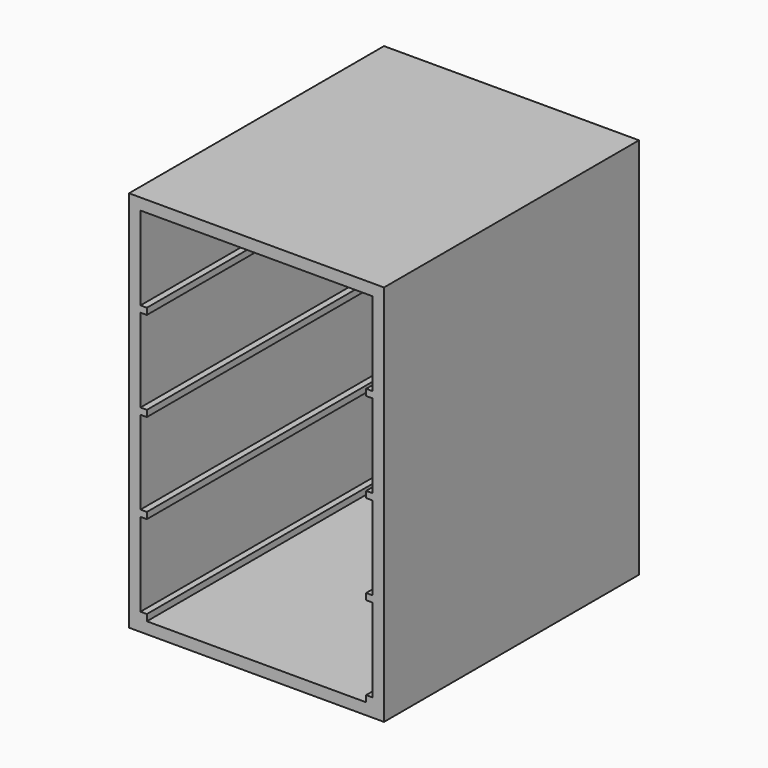
from build123d import *

# Parameters (mm, degrees)
F0_W     = 400
F0_H     = 600
F1_DEPTH = 250
F2_W     = 364
F2_H     = 564
F3_DEPTH = 482
F4_W     = 482
F4_H     = 10
F5_DEPTH = 10
F6_W     = 482
F6_H     = 10
F7_DEPTH = 10


with BuildPart() as f1:
    # F0 (on Front) → F1 (new body, symmetric)
    with BuildSketch(Plane.XZ):
        Rectangle(F0_W, F0_H)
    extrude(amount=F1_DEPTH, both=True)

    # F2 (on face) → F3 (cut)
    with BuildSketch(Plane.XZ.offset(250)):
        Rectangle(F2_W, F2_H)
    extrude(amount=-F3_DEPTH, mode=Mode.SUBTRACT)

    # F4 (on face) → F5 (join)
    with BuildSketch(Plane.YZ.offset(-182)):
        with Locations((-9, 146)):
            Rectangle(F4_W, F4_H)
        with Locations((-9, 5)):
            Rectangle(F4_W, F4_H)
        with Locations((-9, -136)):
            Rectangle(F4_W, F4_H)
        with Locations((-9, -277)):
            Rectangle(F4_W, F4_H)
    extrude(amount=F5_DEPTH)

    # F6 (on face) → F7 (join)
    with BuildSketch(Plane(origin=(182, 0, 0), x_dir=(0, -1, 0), z_dir=(-1, 0, 0))):
        with Locations((9, 146)):
            Rectangle(F6_W, F6_H)
        with Locations((9, 5)):
            Rectangle(F6_W, F6_H)
        with Locations((9, -136)):
            Rectangle(F6_W, F6_H)
        with Locations((9, -277)):
            Rectangle(F6_W, F6_H)
    extrude(amount=F7_DEPTH)


solid = f1.part
